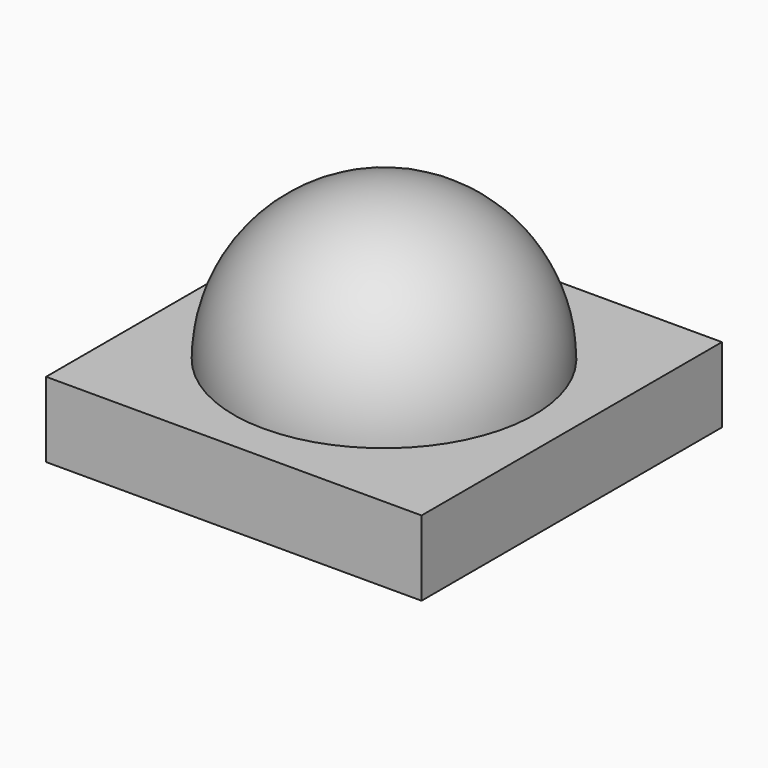
from build123d import *

# Parameters (mm, degrees)
F0_W     = 25
F0_H     = 25
F1_DEPTH = 5
F3_ANGLE = 180


with BuildPart() as f1:
    # F0 (on Top) → F1 (new body)
    with BuildSketch(Plane.XY):
        Rectangle(F0_W, F0_H)
    extrude(amount=F1_DEPTH)

    # F2 (on face) → F3 (revolve)
    with BuildSketch(Plane.XY.offset(5)):
        with BuildLine():
            Line((0, -10), (0, 10))
            ThreePointArc((0, 10), (-10, 0), (0, -10))
        make_face()
    revolve(axis=Axis((0, 0, 5), (0, 1, 0)), revolution_arc=F3_ANGLE)


solid = f1.part
